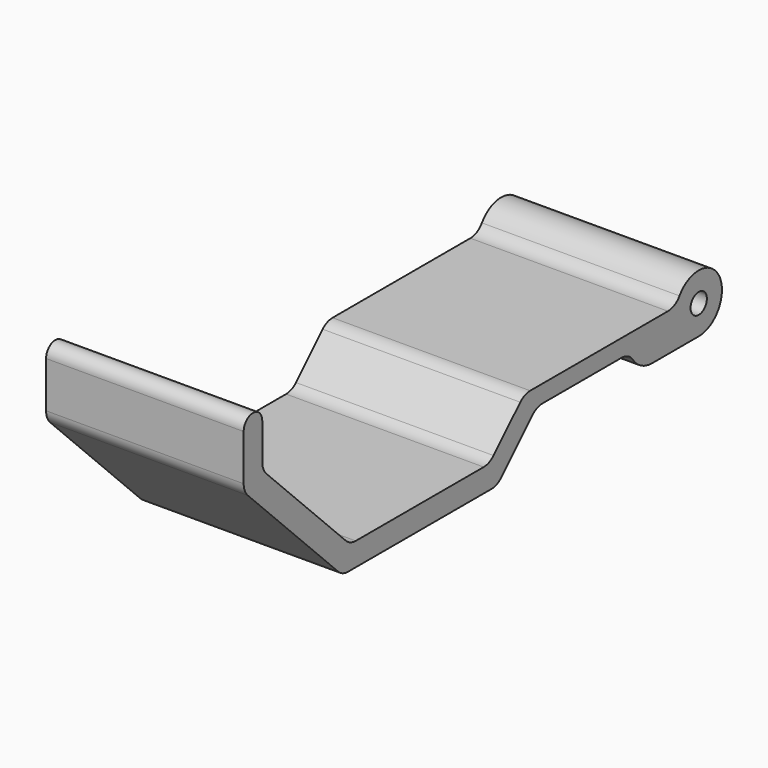
from build123d import *

# Parameters (mm, degrees)
F0_R     = 1.75
F1_DEPTH = 17.5
F3_DEPTH = 35
F4_R     = 3
F5_DEPTH = 0.5
F6_DEPTH = 0.5


with BuildPart() as f1:
    # F0 (on Right) → F1 (new body, symmetric)
    with BuildSketch(Plane.YZ):
        with BuildLine():
            Line((-5.2303039929, -1.5), (-4.7696960071, -1.5))
            ThreePointArc((-4.7696960071, -1.5), (5, 0), (-4.7696960071, 1.5))
            Line((-4.7696960071, 1.5), (-37.5, 1.5))
            Line((-37.5, 1.5), (-45, -6))
            Line((-45, -6), (-75, -6))
            Line((-75, -6), (-93.8700576851, 12.8700576851))
            Line((-93.8700576851, 12.8700576851), (-93.8700576851, 20.3700576851))
            ThreePointArc((-93.8700576851, 20.3700576851), (-95.8700576851, 22.3700576851), (-97.8700576851, 20.3700576851))
            Line((-97.8700576851, 20.3700576851), (-97.8700576851, 11.2132034356))
            Line((-97.8700576851, 11.2132034356), (-76.6568542495, -10))
            Line((-76.6568542495, -10), (-43.3431457505, -10))
            Line((-43.3431457505, -10), (-34.8431457505, -1.5))
            Line((-34.8431457505, -1.5), (-14.7696960071, -1.5))
            ThreePointArc((-14.7696960071, -1.5), (-10, -5), (-5.2303039929, -1.5))
        make_face()
        Circle(F0_R, mode=Mode.SUBTRACT)
    extrude(amount=F1_DEPTH, both=True)

    # F2 (on face) → F3 (join, through all)
    with BuildSketch(Plane.YZ.offset(17.5)):
        with BuildLine():
            ThreePointArc((-5.2303039929, -1.5), (-7.0419601085, -4.0311288741), (-10, -5))
            Line((-10, -5), (0, -5))
            ThreePointArc((0, -5), (-2.9580398915, -4.0311288741), (-4.7696960071, -1.5))
            Line((-4.7696960071, -1.5), (-5.2303039929, -1.5))
        make_face()
    extrude(amount=-F3_DEPTH)

    # F4
    f4_edges = [f1.edges().sort_by_distance(p)[0] for p in [
        (0, -4.769696, 1.5),
        (0, -14.769696, -1.5),
        (0, -75, -6),
        (0, -76.656854, -10),
        (0, -43.343146, -10),
        (0, -34.843146, -1.5),
        (0, -45, -6),
        (0, -37.5, 1.5),
        (0, -97.870058, 11.213203),
        (0, -93.870058, 12.870058),
    ]]
    fillet(f4_edges, radius=F4_R)

    # F5 (cut): a face of the model
    f5_faces = [f1.faces().sort_by_distance(p)[0] for p in [
        (17.5, -96.7916296902, 16.4129509039),
    ]]
    extrude(f5_faces, amount=-F5_DEPTH, mode=Mode.SUBTRACT)

    # F6 (cut): a face of the model
    f6_faces = [f1.faces().sort_by_distance(p)[0] for p in [
        (-17.5, -96.7916296902, 16.4129509039),
    ]]
    extrude(f6_faces, amount=-F6_DEPTH, mode=Mode.SUBTRACT)


solid = f1.part
